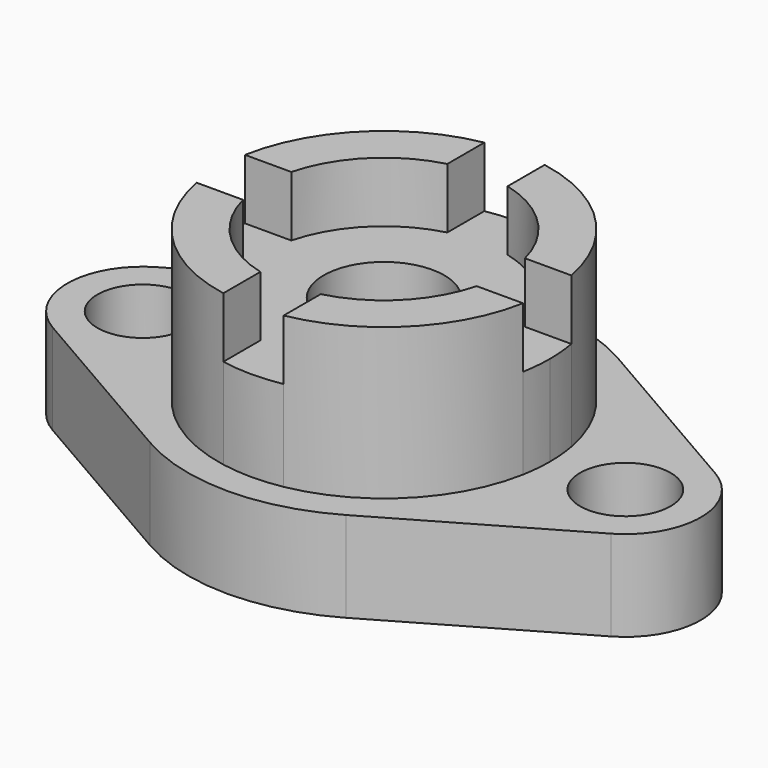
from build123d import *

# Parameters (mm, degrees)
F0_R     = 9.525
F1_DEPTH = 19.05
F0_R_2   = 12.7
F2_DEPTH = 38.1
F3_DEPTH = 50.8


with BuildPart() as f1:
    # F0 (on Top) → F1 (new body)
    with BuildSketch(Plane.XY):
        with BuildLine():
            Line((20.6375, -35.745199), (58.7375, -13.748153))
            ThreePointArc((58.7375, -13.748153), (66.675, 0), (58.7375, 13.748153))
            Line((58.7375, 13.748153), (20.6375, 35.745199))
            ThreePointArc((20.6375, 35.745199), (0, 41.275), (-20.6375, 35.745199))
            Line((-20.6375, 35.745199), (-58.7375, 13.748153))
            ThreePointArc((-58.7375, 13.748153), (-66.675, 0), (-58.7375, -13.748153))
            Line((-58.7375, -13.748153), (-20.6375, -35.745199))
            ThreePointArc((-20.6375, -35.745199), (0, -41.275), (20.6375, -35.745199))
        make_face()
        with Locations((-50.8, 0)):
            Circle(F0_R, mode=Mode.SUBTRACT)
        with BuildLine():
            ThreePointArc((6.35, 34.342876), (24.695704, 24.695704), (34.342876, 6.35))
            ThreePointArc((34.342876, 6.35), (34.779164, 3.188313), (34.925, 0))
            ThreePointArc((34.925, 0), (34.779164, -3.188313), (34.342876, -6.35))
            ThreePointArc((34.342876, -6.35), (24.695704, -24.695704), (6.35, -34.342876))
            ThreePointArc((6.35, -34.342876), (0, -34.925), (-6.35, -34.342876))
            ThreePointArc((-6.35, -34.342876), (-24.695704, -24.695704), (-34.342876, -6.35))
            ThreePointArc((-34.342876, -6.35), (-34.925, 0), (-34.342876, 6.35))
            ThreePointArc((-34.342876, 6.35), (-24.695704, 24.695704), (-6.35, 34.342876))
            ThreePointArc((-6.35, 34.342876), (0, 34.925), (6.35, 34.342876))
        make_face(mode=Mode.SUBTRACT)
        with Locations((50.8, 0)):
            Circle(F0_R, mode=Mode.SUBTRACT)
    extrude(amount=F1_DEPTH)

    # F0 (on Top) → F2 (join)
    with BuildSketch(Plane.XY):
        with BuildLine():
            Line((6.35, -34.342876), (6.35, -24.593444))
            ThreePointArc((6.35, -24.593444), (0, -25.4), (-6.35, -24.593444))
            Line((-6.35, -24.593444), (-6.35, -34.342876))
            ThreePointArc((-6.35, -34.342876), (0, -34.925), (6.35, -34.342876))
        make_face()
        with BuildLine():
            Line((-6.35, -34.342876), (-6.35, -24.593444))
            ThreePointArc((-6.35, -24.593444), (-17.960512, -17.960512), (-24.593444, -6.35))
            Line((-24.593444, -6.35), (-34.342876, -6.35))
            ThreePointArc((-34.342876, -6.35), (-24.695704, -24.695704), (-6.35, -34.342876))
        make_face()
        with BuildLine():
            Line((34.342876, -6.35), (24.593444, -6.35))
            ThreePointArc((24.593444, -6.35), (17.960512, -17.960512), (6.35, -24.593444))
            Line((6.35, -24.593444), (6.35, -34.342876))
            ThreePointArc((6.35, -34.342876), (24.695704, -24.695704), (34.342876, -6.35))
        make_face()
        with BuildLine():
            ThreePointArc((24.593444, -6.35), (25.197554, -3.200509), (25.4, 0))
            ThreePointArc((25.4, 0), (25.197554, 3.200509), (24.593444, 6.35))
            ThreePointArc((24.593444, 6.35), (17.960512, 17.960512), (6.35, 24.593444))
            ThreePointArc((6.35, 24.593444), (0, 25.4), (-6.35, 24.593444))
            ThreePointArc((-6.35, 24.593444), (-17.960512, 17.960512), (-24.593444, 6.35))
            ThreePointArc((-24.593444, 6.35), (-25.4, 0), (-24.593444, -6.35))
            ThreePointArc((-24.593444, -6.35), (-17.960512, -17.960512), (-6.35, -24.593444))
            ThreePointArc((-6.35, -24.593444), (0, -25.4), (6.35, -24.593444))
            ThreePointArc((6.35, -24.593444), (17.960512, -17.960512), (24.593444, -6.35))
        make_face()
        Circle(F0_R_2, mode=Mode.SUBTRACT)
        with BuildLine():
            ThreePointArc((24.593444, 6.35), (25.197554, 3.200509), (25.4, 0))
            ThreePointArc((25.4, 0), (25.197554, -3.200509), (24.593444, -6.35))
            Line((24.593444, -6.35), (34.342876, -6.35))
            ThreePointArc((34.342876, -6.35), (34.779164, -3.188313), (34.925, 0))
            ThreePointArc((34.925, 0), (34.779164, 3.188313), (34.342876, 6.35))
            Line((34.342876, 6.35), (24.593444, 6.35))
        make_face()
        with BuildLine():
            ThreePointArc((6.35, 24.593444), (17.960512, 17.960512), (24.593444, 6.35))
            Line((24.593444, 6.35), (34.342876, 6.35))
            ThreePointArc((34.342876, 6.35), (24.695704, 24.695704), (6.35, 34.342876))
            Line((6.35, 34.342876), (6.35, 24.593444))
        make_face()
        with BuildLine():
            ThreePointArc((-24.593444, -6.35), (-25.4, 0), (-24.593444, 6.35))
            Line((-24.593444, 6.35), (-34.342876, 6.35))
            ThreePointArc((-34.342876, 6.35), (-34.925, 0), (-34.342876, -6.35))
            Line((-34.342876, -6.35), (-24.593444, -6.35))
        make_face()
        with BuildLine():
            ThreePointArc((-24.593444, 6.35), (-17.960512, 17.960512), (-6.35, 24.593444))
            Line((-6.35, 24.593444), (-6.35, 34.342876))
            ThreePointArc((-6.35, 34.342876), (-24.695704, 24.695704), (-34.342876, 6.35))
            Line((-34.342876, 6.35), (-24.593444, 6.35))
        make_face()
        with BuildLine():
            ThreePointArc((-6.35, 24.593444), (0, 25.4), (6.35, 24.593444))
            Line((6.35, 24.593444), (6.35, 34.342876))
            ThreePointArc((6.35, 34.342876), (0, 34.925), (-6.35, 34.342876))
            Line((-6.35, 34.342876), (-6.35, 24.593444))
        make_face()
    extrude(amount=F2_DEPTH)

    # F0 (on Top) → F3 (join)
    with BuildSketch(Plane.XY):
        with BuildLine():
            ThreePointArc((6.35, 24.593444), (17.960512, 17.960512), (24.593444, 6.35))
            Line((24.593444, 6.35), (34.342876, 6.35))
            ThreePointArc((34.342876, 6.35), (24.695704, 24.695704), (6.35, 34.342876))
            Line((6.35, 34.342876), (6.35, 24.593444))
        make_face()
        with BuildLine():
            Line((34.342876, -6.35), (24.593444, -6.35))
            ThreePointArc((24.593444, -6.35), (17.960512, -17.960512), (6.35, -24.593444))
            Line((6.35, -24.593444), (6.35, -34.342876))
            ThreePointArc((6.35, -34.342876), (24.695704, -24.695704), (34.342876, -6.35))
        make_face()
        with BuildLine():
            Line((-6.35, -34.342876), (-6.35, -24.593444))
            ThreePointArc((-6.35, -24.593444), (-17.960512, -17.960512), (-24.593444, -6.35))
            Line((-24.593444, -6.35), (-34.342876, -6.35))
            ThreePointArc((-34.342876, -6.35), (-24.695704, -24.695704), (-6.35, -34.342876))
        make_face()
        with BuildLine():
            ThreePointArc((-24.593444, 6.35), (-17.960512, 17.960512), (-6.35, 24.593444))
            Line((-6.35, 24.593444), (-6.35, 34.342876))
            ThreePointArc((-6.35, 34.342876), (-24.695704, 24.695704), (-34.342876, 6.35))
            Line((-34.342876, 6.35), (-24.593444, 6.35))
        make_face()
    extrude(amount=F3_DEPTH)


solid = f1.part
